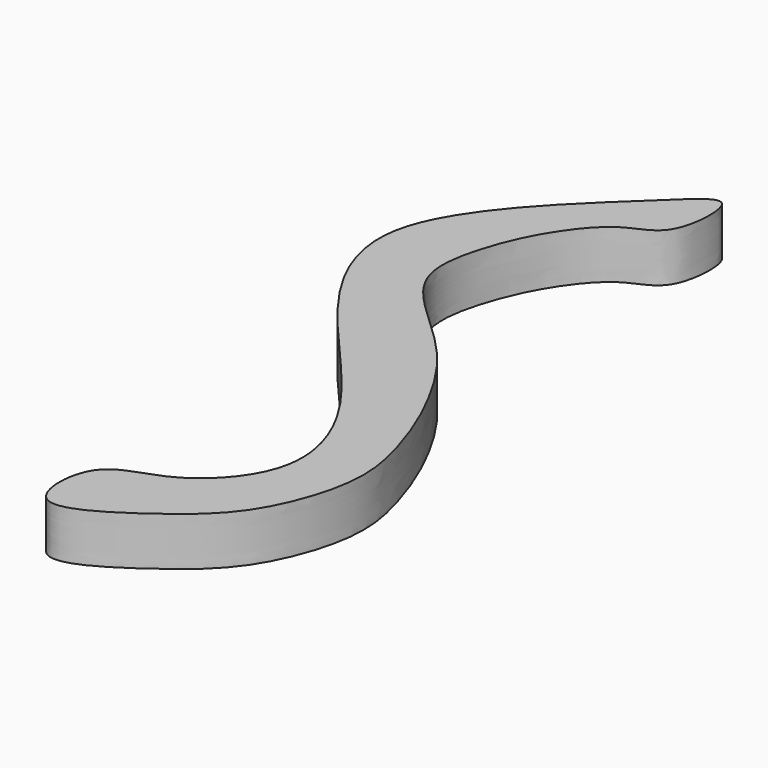
from build123d import *

# Parameters (mm, degrees)
F1_DEPTH = 5


with BuildPart() as f1:
    # F0 (on Top) → F1 (new body)
    with BuildSketch(Plane.XY):
        with BuildLine():
            add(Edge.make_bspline(
                [(-36.0381193459, 59.0325891972), (-36.8379513683, 57.6017424357), (-39.9152621772, 57.171781909), (-43.89602883, 52.037187294), (-46.1747757098, 46.5659278276), (-47.4006674669, 39.7488406858), (-41.2277909833, 34.1638683028), (-36.0639198079, 29.2205758053), (-31.8093423615, 21.7522183728), (-29.4383540716, 15.2383491841), (-28.0597330817, 8.7247786332), (-31.282606832, -0.7550406948), (-37.0629415976, -5.6912729875), (-47.4013369512, -12.3953918375), (-47.3669615193, -1.3940756683), (-40.0661976556, -0.9424120252), (-32.7020543815, 7.018460653), (-36.7773489338, 18.713149871), (-48.264009366, 29.8043043479), (-57.9821523734, 45.9090554159), (-41.1744652682, 60.9974456179), (-34.8836858804, 67.3992009933), (-35.0941685273, 60.7212549844), (-36.0381193459, 59.0325891972)],
                knots=[0, 0, 0, 0, 0.0339383979, 0.0745777898, 0.1153743938, 0.1563264207, 0.2018314378, 0.2466597748, 0.2944749199, 0.3376862656, 0.3796617209, 0.4296563778, 0.4780700186, 0.5265856309, 0.567537657, 0.6093007377, 0.659390671, 0.7135473705, 0.7806692791, 0.8459630299, 0.9215400711, 0.9599463667, 1, 1, 1, 1], degree=3))
        make_face()
    extrude(amount=F1_DEPTH)


solid = f1.part
